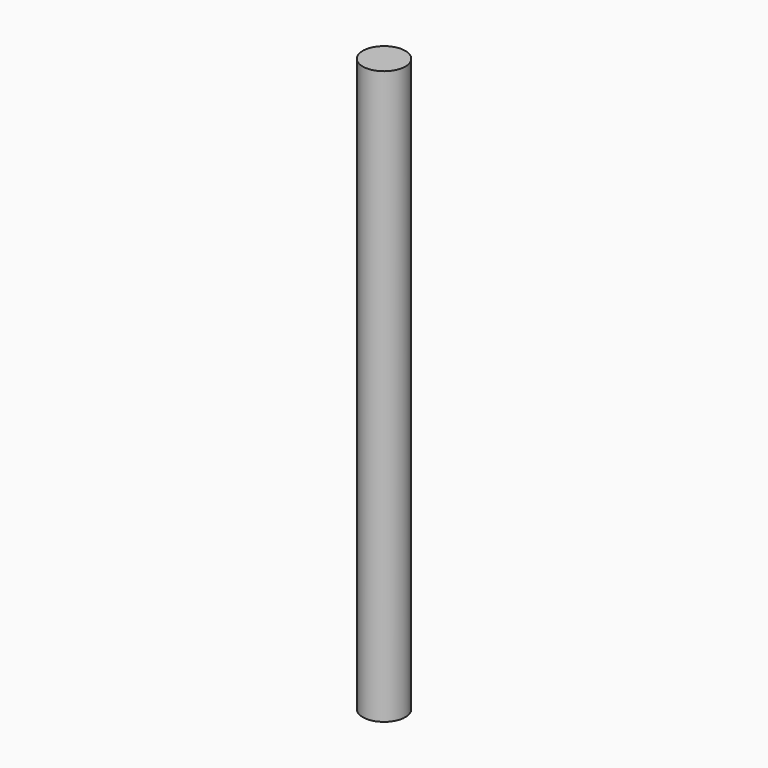
from build123d import *

# Parameters (mm, degrees)
F0_R      = 25.495493
F0_R_2    = 7.971043
F1_DEPTH  = 50.8
F1_FACE_R = 25.495493
F2_DEPTH  = 635


with BuildPart() as f1:
    # F0 (on Top) → F1 (new body)
    with BuildSketch(Plane.XY):
        Circle(F0_R)
        Circle(F0_R_2, mode=Mode.SUBTRACT)
        Circle(F0_R_2)
    extrude(amount=F1_DEPTH)

    # F1_face (on face) → F2 (join)
    with BuildSketch(Plane.XY.offset(50.8)):
        Circle(F1_FACE_R)
        Circle(F1_FACE_R)
    extrude(amount=F2_DEPTH)


solid = f1.part
